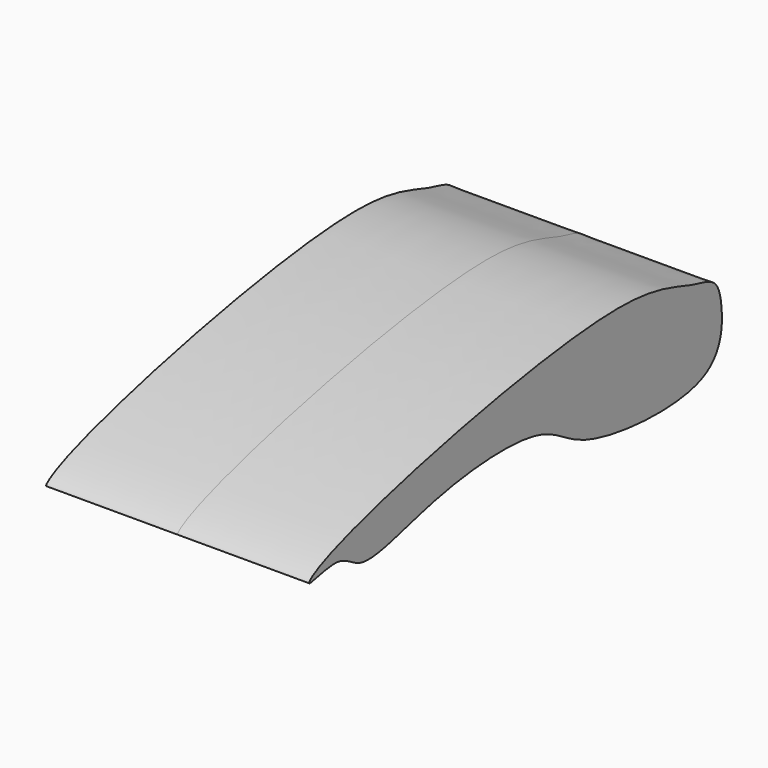
from build123d import *

# Parameters (mm, degrees)
F1_DEPTH = 50.8
F2_DEPTH = 50.8


with BuildPart() as f1:
    # F0 (on Right) → F1 (new body)
    with BuildSketch(Plane.YZ):
        with BuildLine():
            add(Edge.make_bspline(
                [(-90.426042676, 0), (-85.7630807823, -0.5018434314), (-78.9792398365, -9.661346413), (-42.4041453882, 4.7774241656), (10.262116147, 7.831740562), (26.2188018702, -10.969098557), (83.8628307626, -15.2603084117), (95.3191659021, -0.8762494829), (95.4884839629, 11.2466095705), (93.0873518487, 22.5273277484), (78.1923226184, 24.2286357883), (47.367705408, 40.2206603729), (-92.60046038, 9.0359747184), (-108.0949527662, -4.1019920918), (-95.2654105297, 0.5208288262), (-90.426042676, 0)],
                knots=[0, 0, 0, 0, 0.0526558629, 0.1426094449, 0.2480618332, 0.321344812, 0.4293305707, 0.4874313331, 0.5378650848, 0.5842957326, 0.6343196035, 0.7233402459, 0.9021333114, 0.9453520968, 1, 1, 1, 1], degree=3))
        make_face()
    extrude(amount=F1_DEPTH)

    # F0 (on Right) → F2 (join)
    with BuildSketch(Plane.YZ):
        with BuildLine():
            add(Edge.make_bspline(
                [(-90.426042676, 0), (-85.7630807823, -0.5018434314), (-78.9792398365, -9.661346413), (-42.4041453882, 4.7774241656), (10.262116147, 7.831740562), (26.2188018702, -10.969098557), (83.8628307626, -15.2603084117), (95.3191659021, -0.8762494829), (95.4884839629, 11.2466095705), (93.0873518487, 22.5273277484), (78.1923226184, 24.2286357883), (47.367705408, 40.2206603729), (-92.60046038, 9.0359747184), (-108.0949527662, -4.1019920918), (-95.2654105297, 0.5208288262), (-90.426042676, 0)],
                knots=[0, 0, 0, 0, 0.0526558629, 0.1426094449, 0.2480618332, 0.321344812, 0.4293305707, 0.4874313331, 0.5378650848, 0.5842957326, 0.6343196035, 0.7233402459, 0.9021333114, 0.9453520968, 1, 1, 1, 1], degree=3))
        make_face()
    extrude(amount=-F2_DEPTH)


solid = f1.part
